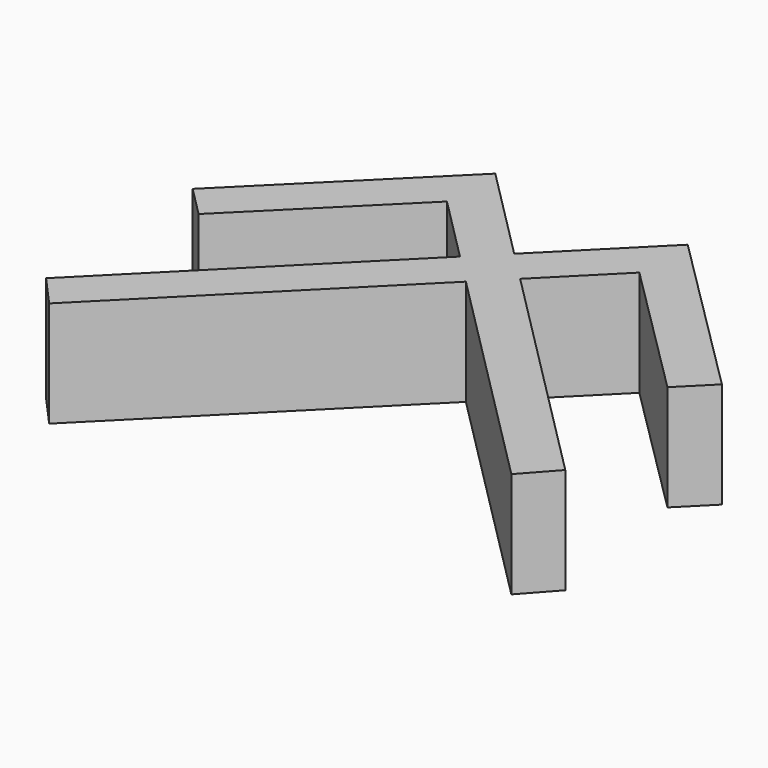
from build123d import *

# Parameters (mm, degrees)
F1_DEPTH = 2


with BuildPart() as f1:
    # F0 (on Top) → F1 (new body)
    with BuildSketch(Plane.XY):
        Polygon((0.0020809008, 0.0744279957), (0.0020809008, 1.2160689281), (-0.5664508691, 0.6452484619), align=None)
        Polygon((0.5706126707, 0.6452484619), (0.0020809008, 1.2160689281), (0.0020809008, 0.0744279957), align=None)
        Polygon((-0.5664508691, 0.6452484619), (0.0020809008, 1.2160689281), (-1.8156066978, 3.0410738575), (-4.9979190992, -0.1284791085), (-4.4271032396, -0.7015928593), (-1.8156066978, 1.8994329251), align=None)
        Polygon((1.8197684995, 3.0410738575), (0.0020809008, 1.2160689281), (0.5706126707, 0.6452484619), (1.8197684995, 1.8994329251), (4.4312650413, -0.7015928593), (5.0020809008, -0.1284791085), align=None)
        Polygon((0.0020809008, 0.0744279957), (-0.5664508691, 0.6452484619), (-4.9030662725, -3.7088245339), (-4.3643432213, -4.3095737176), align=None)
        Polygon((0.5706126707, 0.6452484619), (0.0020809008, 0.0744279957), (4.3685050229, -4.3095737176), (4.9072280741, -3.7088245339), align=None)
    extrude(amount=F1_DEPTH)


solid = f1.part
